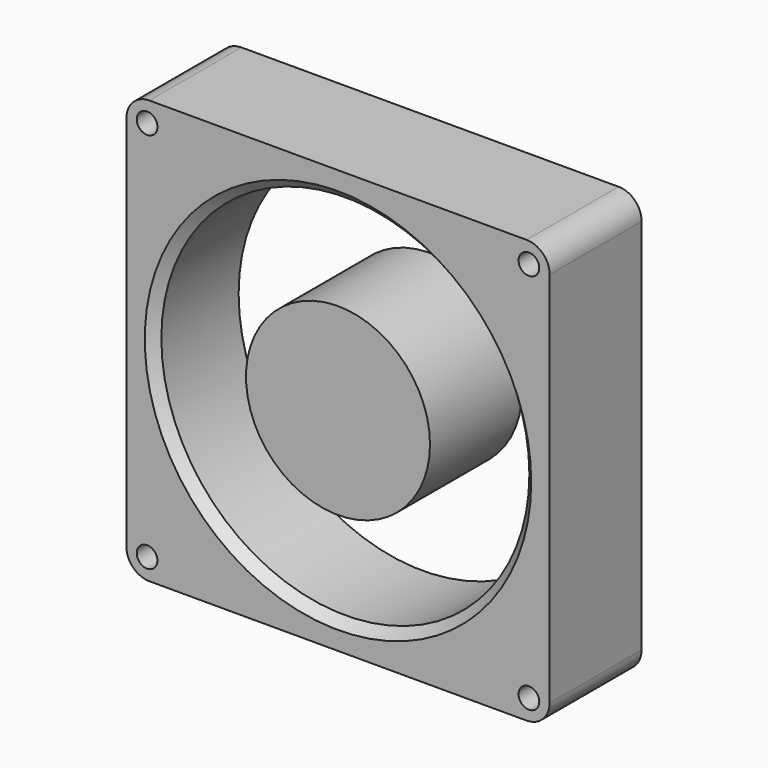
from build123d import *

# Parameters (mm, degrees)
F0_W     = 92
F0_H     = 92
F0_R     = 2.25
F0_R_2   = 40
F0_R_3   = 20
F1_DEPTH = 25
F2_R     = 5
F3_SIZE  = 2


with BuildPart() as f1:
    # F0 (on Front) → F1 (new body)
    with BuildSketch(Plane.XZ):
        Rectangle(F0_W, F0_H)
        with Locations((-41.5, -41.5)):
            Circle(F0_R, mode=Mode.SUBTRACT)
        with Locations((41.5, -41.5)):
            Circle(F0_R, mode=Mode.SUBTRACT)
        with Locations((-41.5, 41.5)):
            Circle(F0_R, mode=Mode.SUBTRACT)
        Circle(F0_R_2, mode=Mode.SUBTRACT)
        with Locations((41.5, 41.5)):
            Circle(F0_R, mode=Mode.SUBTRACT)
        Circle(F0_R_3)
    extrude(amount=F1_DEPTH)

    # F2
    f2_edges = [f1.edges().sort_by_distance(p)[0] for p in [
        (46, -12.5, 46),
        (-46, -12.5, 46),
        (46, -12.5, -46),
        (-46, -12.5, -46),
    ]]
    fillet(f2_edges, radius=F2_R)

    # F3
    f3_edges = [f1.edges().sort_by_distance(p)[0] for p in [
        (-40, -25, 0),
        (-40, 0, 0),
    ]]
    chamfer(f3_edges, length=F3_SIZE)


solid = f1.part
